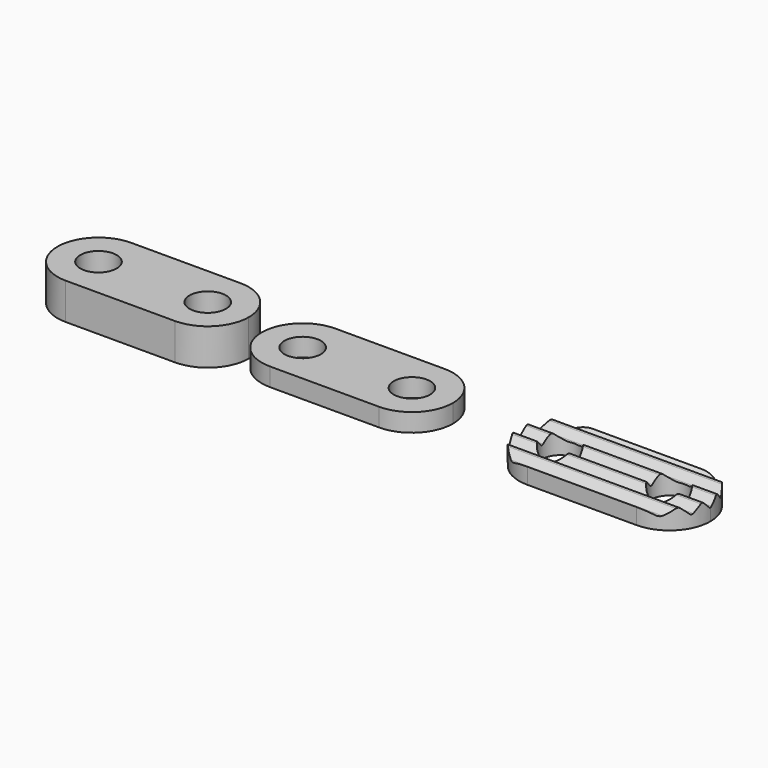
from build123d import *

# Parameters (mm, degrees)
F0_R     = 2
F1_DEPTH = 2
F2_DEPTH = 1
F3_DEPTH = 1.25
F5_DEPTH = 12.5


with BuildPart() as f1:
    # F0 (on Top) → F1 (new body, symmetric)
    with BuildSketch(Plane.XY):
        with BuildLine():
            ThreePointArc((-56.699988, -4.5), (-53.518007, -3.18198), (-52.199988, 0))
            ThreePointArc((-52.199988, 0), (-53.518007, 3.181981), (-56.699988, 4.5))
            ThreePointArc((-56.699988, 4.5), (-61.199988, 0), (-56.699988, -4.5))
        make_face()
        with Locations((-56.699988, 0)):
            Circle(F0_R, mode=Mode.SUBTRACT)
        with BuildLine():
            ThreePointArc((-40.199988, 0), (-41.518007, 3.181981), (-44.699988, 4.5))
            ThreePointArc((-44.699988, 4.5), (-49.199988, 0), (-44.699988, -4.5))
            ThreePointArc((-44.699988, -4.5), (-41.518007, -3.18198), (-40.199988, 0))
        make_face()
        with Locations((-44.699988, 0)):
            Circle(F0_R, mode=Mode.SUBTRACT)
        with BuildLine():
            ThreePointArc((-56.699988, 4.5), (-53.518007, 3.181981), (-52.199988, 0))
            ThreePointArc((-52.199988, 0), (-53.518007, -3.18198), (-56.699988, -4.5))
            Line((-56.699988, -4.5), (-44.699988, -4.5))
            ThreePointArc((-44.699988, -4.5), (-49.199988, 0), (-44.699988, 4.5))
            Line((-44.699988, 4.5), (-56.699988, 4.5))
        make_face()
    extrude(amount=F1_DEPTH, both=True)


with BuildPart() as f2:
    # F0 (on Top) → F2 (new body, symmetric)
    with BuildSketch(Plane.XY):
        with BuildLine():
            ThreePointArc((-34.278223, -4.5), (-31.096243, -3.18198), (-29.778223, 0))
            ThreePointArc((-29.778223, 0), (-31.096243, 3.181981), (-34.278223, 4.5))
            ThreePointArc((-34.278223, 4.5), (-38.778223, 0), (-34.278223, -4.5))
        make_face()
        with Locations((-34.278223, 0)):
            Circle(F0_R, mode=Mode.SUBTRACT)
        with BuildLine():
            ThreePointArc((-34.278223, 4.5), (-31.096243, 3.181981), (-29.778223, 0))
            ThreePointArc((-29.778223, 0), (-31.096243, -3.18198), (-34.278223, -4.5))
            Line((-34.278223, -4.5), (-22.278223, -4.5))
            ThreePointArc((-22.278223, -4.5), (-26.778223, 0), (-22.278223, 4.5))
            Line((-22.278223, 4.5), (-34.278223, 4.5))
        make_face()
        with BuildLine():
            ThreePointArc((-17.778223, 0), (-19.096243, 3.181981), (-22.278223, 4.5))
            ThreePointArc((-22.278223, 4.5), (-26.778223, 0), (-22.278223, -4.5))
            ThreePointArc((-22.278223, -4.5), (-19.096243, -3.18198), (-17.778223, 0))
        make_face()
        with Locations((-22.278223, 0)):
            Circle(F0_R, mode=Mode.SUBTRACT)
    extrude(amount=F2_DEPTH, both=True)


with BuildPart() as f3:
    # F0 (on Top) → F3 (new body, symmetric)
    with BuildSketch(Plane.XY):
        with BuildLine():
            ThreePointArc((-6, -4.5), (-2.818019, -3.18198), (-1.5, 0))
            ThreePointArc((-1.5, 0), (-2.818019, 3.181981), (-6, 4.5))
            ThreePointArc((-6, 4.5), (-10.5, 0), (-6, -4.5))
        make_face()
        with Locations((-6, 0)):
            Circle(F0_R, mode=Mode.SUBTRACT)
        with BuildLine():
            ThreePointArc((-6, 4.5), (-2.818019, 3.181981), (-1.5, 0))
            ThreePointArc((-1.5, 0), (-2.818019, -3.18198), (-6, -4.5))
            Line((-6, -4.5), (6, -4.5))
            ThreePointArc((6, -4.5), (1.5, 0), (6, 4.5))
            Line((6, 4.5), (-6, 4.5))
        make_face()
        with BuildLine():
            ThreePointArc((10.5, 0), (9.181981, 3.181981), (6, 4.5))
            ThreePointArc((6, 4.5), (1.5, 0), (6, -4.5))
            ThreePointArc((6, -4.5), (9.181981, -3.18198), (10.5, 0))
        make_face()
        with Locations((6, 0)):
            Circle(F0_R, mode=Mode.SUBTRACT)
    extrude(amount=F3_DEPTH, both=True)

    # F4 (on Right) → F5 (cut, symmetric)
    with BuildSketch(Plane.YZ):
        with BuildLine():
            ThreePointArc((-9.999996, 0.241421), (-9.938264, 0.149033), (-9.829285, 0.170711))
            Line((-9.829285, 0.170711), (-9.141417, 0.858579))
            ThreePointArc((-9.141417, 0.858579), (-8.999996, 0.917157), (-8.858575, 0.858579))
            Line((-8.858575, 0.858579), (-8.141417, 0.141421))
            ThreePointArc((-8.141417, 0.141421), (-7.999996, 0.082843), (-7.858575, 0.141421))
            Line((-7.858575, 0.141421), (-7.141417, 0.858579))
            ThreePointArc((-7.141417, 0.858579), (-6.999996, 0.917157), (-6.858575, 0.858579))
            Line((-6.858575, 0.858579), (-6.141417, 0.141421))
            ThreePointArc((-6.141417, 0.141421), (-5.999996, 0.082843), (-5.858575, 0.141421))
            Line((-5.858575, 0.141421), (-5.141417, 0.858579))
            ThreePointArc((-5.141417, 0.858579), (-4.999996, 0.917157), (-4.858575, 0.858579))
            Line((-4.858575, 0.858579), (-4.141417, 0.141421))
            ThreePointArc((-4.141417, 0.141421), (-3.999996, 0.082843), (-3.858575, 0.141421))
            Line((-3.858575, 0.141421), (-3.141417, 0.858579))
            ThreePointArc((-3.141417, 0.858579), (-2.999996, 0.917157), (-2.858575, 0.858579))
            Line((-2.858575, 0.858579), (-2.141417, 0.141421))
            ThreePointArc((-2.141417, 0.141421), (-1.999996, 0.082843), (-1.858575, 0.141421))
            Line((-1.858575, 0.141421), (-1.141417, 0.858579))
            ThreePointArc((-1.141417, 0.858579), (-0.999996, 0.917157), (-0.858575, 0.858579))
            Line((-0.858575, 0.858579), (-0.141417, 0.141421))
            ThreePointArc((-0.141417, 0.141421), (4e-06, 0.082843), (0.141425, 0.141421))
            Line((0.141425, 0.141421), (0.858583, 0.858579))
            ThreePointArc((0.858583, 0.858579), (1.000004, 0.917157), (1.141425, 0.858579))
            Line((1.141425, 0.858579), (1.858583, 0.141421))
            ThreePointArc((1.858583, 0.141421), (2.000004, 0.082843), (2.141425, 0.141421))
            Line((2.141425, 0.141421), (2.858583, 0.858579))
            ThreePointArc((2.858583, 0.858579), (3.000004, 0.917157), (3.141425, 0.858579))
            Line((3.141425, 0.858579), (3.858583, 0.141421))
            ThreePointArc((3.858583, 0.141421), (4.000004, 0.082843), (4.141425, 0.141421))
            Line((4.141425, 0.141421), (4.858583, 0.858579))
            ThreePointArc((4.858583, 0.858579), (5.000004, 0.917157), (5.141425, 0.858579))
            Line((5.141425, 0.858579), (5.858583, 0.141421))
            ThreePointArc((5.858583, 0.141421), (6.000004, 0.082843), (6.141425, 0.141421))
            Line((6.141425, 0.141421), (6.858583, 0.858579))
            ThreePointArc((6.858583, 0.858579), (7.000004, 0.917157), (7.141425, 0.858579))
            Line((7.141425, 0.858579), (7.858583, 0.141421))
            ThreePointArc((7.858583, 0.141421), (8.000004, 0.082843), (8.141425, 0.141421))
            Line((8.141425, 0.141421), (8.858583, 0.858579))
            ThreePointArc((8.858583, 0.858579), (9.000004, 0.917157), (9.141425, 0.858579))
            Line((9.141425, 0.858579), (9.858583, 0.141421))
            ThreePointArc((9.858583, 0.141421), (10.000004, 0.082843), (10.141425, 0.141421))
            Line((10.141425, 0.141421), (10.858583, 0.858579))
            ThreePointArc((10.858583, 0.858579), (11.000004, 0.917157), (11.141425, 0.858579))
            Line((11.141425, 0.858579), (11.829293, 0.170711))
            ThreePointArc((11.829293, 0.170711), (11.938272, 0.149033), (12.000004, 0.241421))
            Line((12.000004, 0.241421), (12.000004, 1.859252))
            Line((12.000004, 1.859252), (-9.999996, 1.859252))
            Line((-9.999996, 1.859252), (-9.999996, 0.241421))
        make_face()
    extrude(amount=F5_DEPTH, both=True, mode=Mode.SUBTRACT)


solid = Compound([f1.part, f2.part, f3.part])
